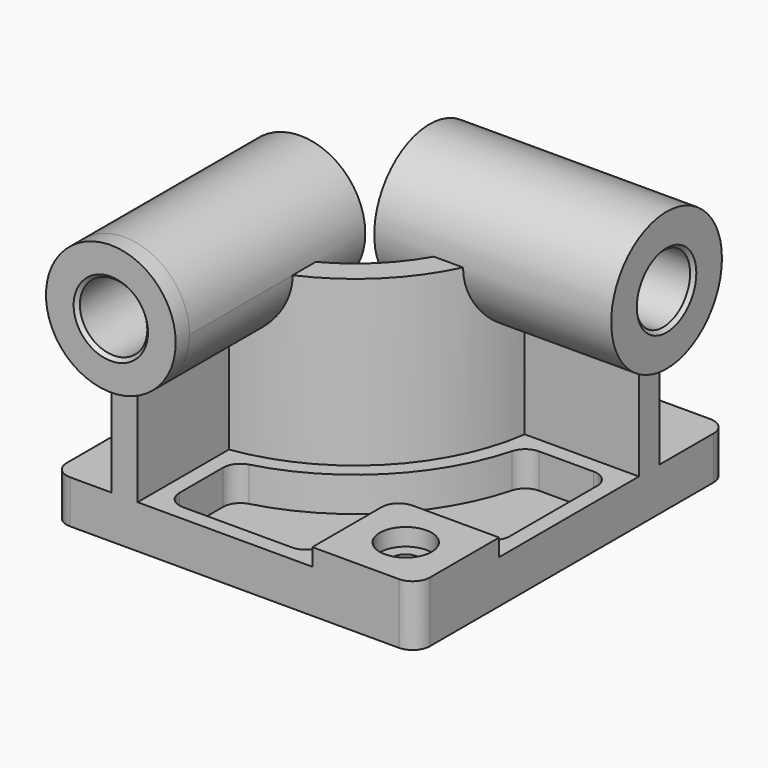
from build123d import *

# Parameters (mm, degrees)
F0_W            = 210
F0_H            = 225
F1_DEPTH        = 25
F3_DEPTH        = 95
F4_R            = 37.5
F5_DEPTH        = 10
F5_DEPTH_BACK   = 127
F6_R            = 40
F7_DEPTH        = 10
F7_DEPTH_BACK   = 127
F8_W            = 60
F8_H            = 60
F9_DEPTH        = 10
F10_R           = 10
F12_DEPTH       = 20
F14_D           = 15
F14_CBORE_D     = 30
F14_CBORE_DEPTH = 10
F15_R           = 10
F16_R           = 19.5
F17_DEPTH       = 235.001
F18_R           = 19.5
F19_DEPTH       = 220.001
F20_SIZE        = 2
F21_R           = 10


with BuildPart() as f1:
    # F0 (on Top) → F1 (new body)
    with BuildSketch(Plane.XY):
        with Locations((4.326922, 0)):
            Rectangle(F0_W, F0_H)
    extrude(amount=F1_DEPTH)

    # F2 (on face) → F3 (join)
    with BuildSketch(Plane.XY.offset(25)):
        with BuildLine():
            Line((-66.673078, -32.5), (-66.673078, -112.5))
            Line((-66.673078, -112.5), (-51.673078, -112.5))
            Line((-51.673078, -112.5), (-51.673078, -46.481817))
            ThreePointArc((-51.673078, -46.481817), (11.815775, -14.988853), (43.308739, 48.5))
            Line((43.308739, 48.5), (109.326922, 48.5))
            Line((109.326922, 48.5), (109.326922, 63.5))
            Line((109.326922, 63.5), (29.326922, 63.5))
            ThreePointArc((29.326922, 63.5), (1.209173, -4.382251), (-66.673078, -32.5))
        make_face()
    extrude(amount=F3_DEPTH)

    # F4 (on face) → F5 (join, two sides)
    with BuildSketch(Plane.XZ.offset(112.5)) as f5_sk:
        with Locations((-59.173078, 120)):
            Circle(F4_R)
    extrude(amount=F5_DEPTH)
    extrude(f5_sk.sketch, amount=-F5_DEPTH_BACK)

    # F6 (on face) → F7 (join, two sides)
    with BuildSketch(Plane.YZ.offset(109.326922)) as f7_sk:
        with Locations((56, 120)):
            Circle(F6_R)
    extrude(amount=F7_DEPTH)
    extrude(f7_sk.sketch, amount=-F7_DEPTH_BACK)

    # F8 (on face) → F9 (join)
    with BuildSketch(Plane.XY.offset(25)):
        with Locations((79.326922, -82.5)):
            Rectangle(F8_W, F8_H)
    extrude(amount=F9_DEPTH)

    # F10
    f10_edges = [f1.edges().sort_by_distance(p)[0] for p in [
        (49.326922, -52.5, 30),
    ]]
    fillet(f10_edges, radius=F10_R)

    # F11 (on face) → F12 (cut)
    with BuildSketch(Plane.XY.offset(25)):
        with BuildLine():
            ThreePointArc((50.90243, 39.5), (18.179736, -21.352814), (-42.673078, -54.075508))
            Line((-42.673078, -54.075508), (-42.673078, -103.5))
            Line((-42.673078, -103.5), (40.326922, -103.5))
            Line((40.326922, -103.5), (40.326922, -62.5))
            ThreePointArc((40.326922, -62.5), (45.891893, -49.064971), (59.326922, -43.5))
            Line((59.326922, -43.5), (100.326922, -43.5))
            Line((100.326922, -43.5), (100.326922, 39.5))
            Line((100.326922, 39.5), (50.90243, 39.5))
        make_face()
    extrude(amount=-F12_DEPTH, mode=Mode.SUBTRACT)

    # F14 (through all)
    with Locations(Plane.XY.offset(35)):
        with Locations((79.326922, -82.5)):
            CounterBoreHole(F14_D / 2, F14_CBORE_D / 2, F14_CBORE_DEPTH)

    # F15
    f15_edges = [f1.edges().sort_by_distance(p)[0] for p in [
        (-42.673078, -54.075508, 15),
        (50.90243, 39.5, 15),
        (-42.673078, -103.5, 15),
        (100.326922, 39.5, 15),
        (100.326922, -43.5, 15),
        (40.326922, -103.5, 15),
    ]]
    fillet(f15_edges, radius=F15_R)

    # F16 (on face) → F17 (cut, through all)
    with BuildSketch(Plane.XZ.offset(122.5)):
        with Locations((-59.173078, 120)):
            Circle(F16_R)
    extrude(amount=-F17_DEPTH, mode=Mode.SUBTRACT)

    # F18 (on face) → F19 (cut, through all)
    with BuildSketch(Plane.YZ.offset(119.326922)):
        with Locations((56, 120)):
            Circle(F18_R)
    extrude(amount=-F19_DEPTH, mode=Mode.SUBTRACT)

    # F20
    f20_edges = [f1.edges().sort_by_distance(p)[0] for p in [
        (-78.673078, -122.5, 120),
        (119.326922, 36.5, 120),
        (-17.673078, 36.5, 120),
        (-78.673078, 14.5, 120),
    ]]
    chamfer(f20_edges, length=F20_SIZE)

    # F21
    f21_edges = [f1.edges().sort_by_distance(p)[0] for p in [
        (109.326922, -112.5, 17.5),
        (109.326922, 112.5, 12.5),
        (-100.673078, -112.5, 12.5),
        (-100.673078, 112.5, 12.5),
    ]]
    fillet(f21_edges, radius=F21_R)


solid = f1.part
